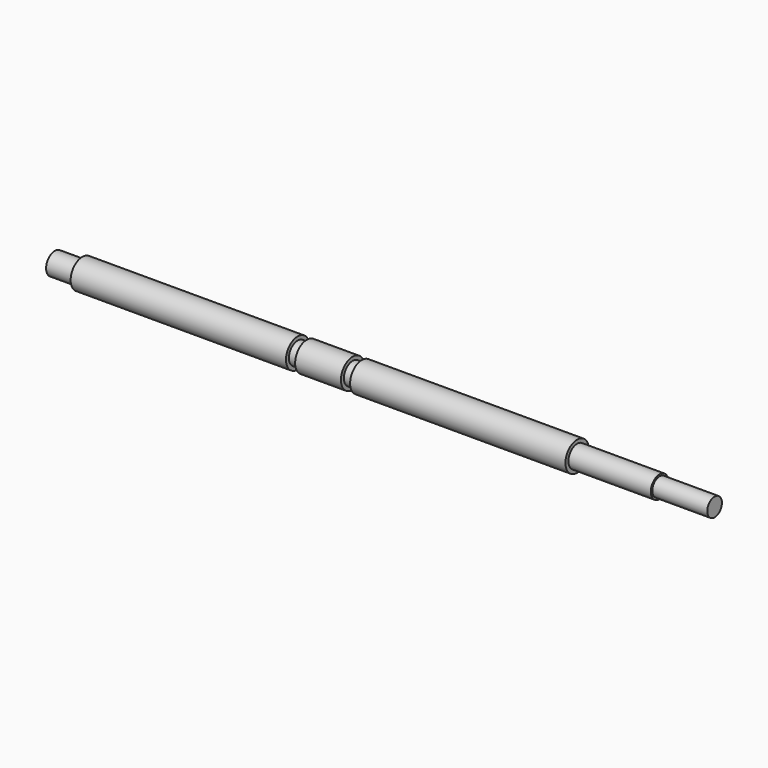
from build123d import *


with BuildPart() as f1:
    # F0 (on Front) → F1 (revolve)
    with BuildSketch(Plane.XZ):
        Polygon((0, 6), (0, 0), (360, 0), (360, 5), (330, 5), (330, 6), (285, 6), (285, 8), (167.5, 8), (167.5, 6), (162.5, 6), (162.5, 8), (137.5, 8), (137.5, 6), (132.5, 6), (132.5, 8), (15, 8), (15, 6), align=None)
    revolve(axis=Axis((180, 0, 0), (1, 0, 0)))


solid = f1.part
